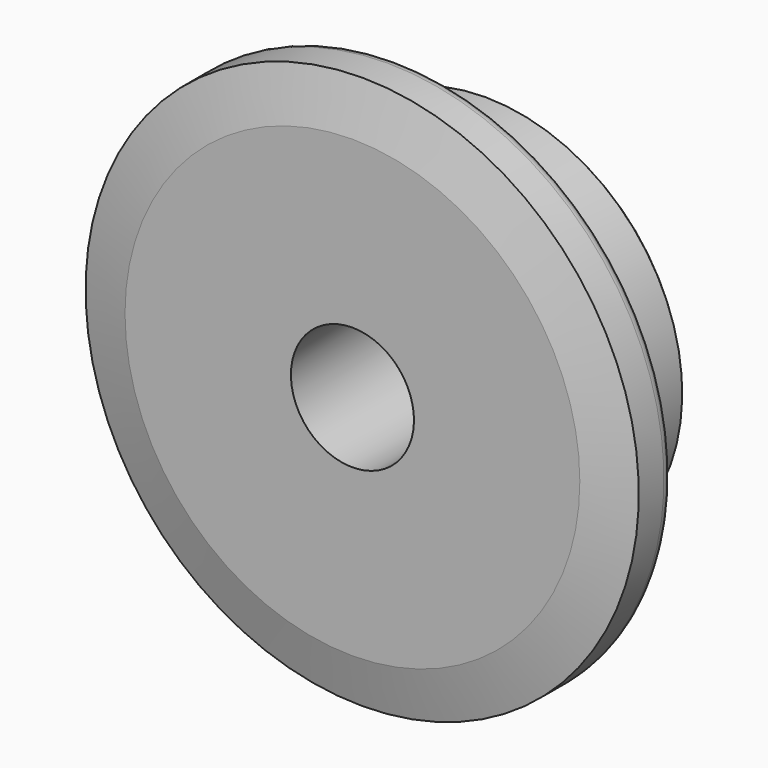
from build123d import *

# Parameters (mm, degrees)
F0_W     = 7.2136
F0_H     = 10.287
F0_H_2   = 17.4625
F0_W_2   = 15.0114
F2_R     = 1.5875
F3_SIZE  = 0.79375
F4_SIZE2 = 6.35
F4_SIZE  = 1.5748


with BuildPart() as f1:
    # F0 (on Right) → F1 (revolve)
    with BuildSketch(Plane.YZ):
        with Locations((3.6068, 30.5435)):
            Rectangle(F0_W, F0_H)
        with Locations((3.6068, 16.66875)):
            Rectangle(F0_W, F0_H_2)
        with Locations((14.7193, 16.66875)):
            Rectangle(F0_W_2, F0_H_2)
    revolve(axis=Axis((0, 6.4671109096, 0), (0, 1, 0)))

    # F2
    f2_edges = [f1.edges().sort_by_distance(p)[0] for p in [
        (0, 7.2136, -35.687),
    ]]
    fillet(f2_edges, radius=F2_R)

    # F3
    f3_edges = [f1.edges().sort_by_distance(p)[0] for p in [
        (0, 22.225, -25.4),
    ]]
    chamfer(f3_edges, length=F3_SIZE)

    # F4
    f4_edges = [f1.edges().sort_by_distance(p)[0] for p in [
        (0, 0, -35.687),
        (0, 5.6261, -35.687),
    ]]
    f4_side = f1.faces().sort_by_distance((0, 2.81305, -35.687))[0]
    chamfer(f4_edges, length=F4_SIZE, length2=F4_SIZE2, reference=f4_side)


solid = f1.part
